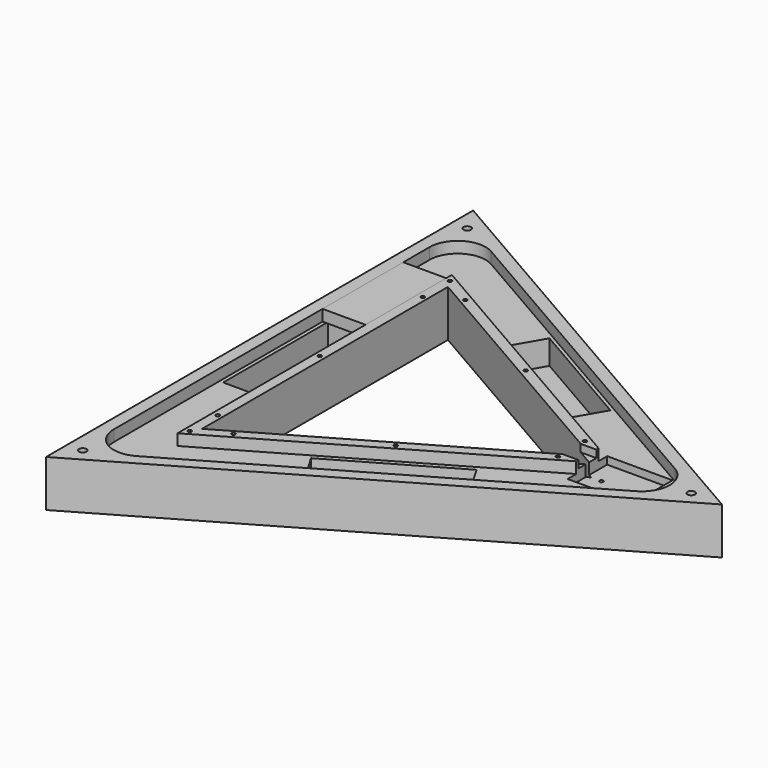
from build123d import *

# Parameters (mm, degrees)
BOX005_W               = 23
BOX005_H               = 54
BOX005_DEPTH           = 6
PRISM003_DEPTH         = 6
PRISM002_DEPTH         = 6
BOX004_W               = 10
BOX004_H               = 12
BOX004_DEPTH           = 4
BOX003_W               = 35
BOX003_H               = 26.5
BOX003_DEPTH           = 10
BOX002_W               = 70
BOX002_H               = 19
BOX002_DEPTH           = 19
BOX002_PLACEMENT_ANGLE = 30
BOX001_W               = 70
BOX001_H               = 19
BOX001_DEPTH           = 19
BOX001_PLACEMENT_ANGLE = 90
BOX_W                  = 70
BOX_H                  = 19
BOX_DEPTH              = 19
BOX_PLACEMENT_ANGLE    = 30
PRISM001_DEPTH         = 25
PRISM_DEPTH            = 25
FILLET_R               = 15
SKETCH001_R            = 2
POCKET_DEPTH           = 782.777352
POLARPATTERN_COUNT     = 3
POCKET001_DEPTH        = 3
SKETCH002_R            = 1
POCKET002_DEPTH        = 782.777352
POLARPATTERN001_COUNT  = 3
SKETCH004_R            = 1
POCKET003_DEPTH        = 782.777352
POLARPATTERN002_COUNT  = 3
POLARPATTERN003_COUNT  = 3


with BuildPart() as box005:
    # Box005 → Box005 (new body)
    with BuildSketch(Plane(origin=(-76, 34, 13), x_dir=(1, 0, 0), z_dir=(0, 0, 1))):
        with Locations((11.5, 27)):
            Rectangle(BOX005_W, BOX005_H)
    extrude(amount=BOX005_DEPTH)


with BuildPart() as prism003:
    # Prism003 → Prism003 (new body)
    with BuildSketch(Plane.XY.offset(13)):
        Polygon((106, 0), (-53, 91.798693), (-53, -91.798693), align=None)
    extrude(amount=PRISM003_DEPTH)


with BuildPart() as cut006:
    # Prism002 → Prism002 (new body)
    with BuildSketch(Plane.XY.offset(13)):
        Polygon((152, 0), (-76, 131.635861), (-76, -131.635861), align=None)
    extrude(amount=PRISM002_DEPTH)

    # Cut006: cut Prism003
    add(prism003.part, mode=Mode.SUBTRACT)


with BuildPart() as box004:
    # Box004 → Box004 (new body)
    with BuildSketch(Plane(origin=(84, -6, 15), x_dir=(1, 0, 0), z_dir=(0, 0, 1))):
        with Locations((5, 6)):
            Rectangle(BOX004_W, BOX004_H)
    extrude(amount=BOX004_DEPTH)


with BuildPart() as box003:
    # Box003 → Box003 (new body)
    with BuildSketch(Plane(origin=(93, -13.3, 9), x_dir=(1, 0, 0), z_dir=(0, 0, 1))):
        with Locations((17.5, 13.25)):
            Rectangle(BOX003_W, BOX003_H)
    extrude(amount=BOX003_DEPTH)


with BuildPart() as box002:
    # Box002 → Box002 (new body)
    with BuildSketch(Plane.XY):
        with Locations((35, 9.5)):
            Rectangle(BOX002_W, BOX002_H)
    extrude(amount=BOX002_DEPTH)


with BuildPart() as box002_1:
    # Box002 placement: moved
    add(box002.part.moved(Location((7, -82, 0))).rotate(Axis((7, -82, 0), (0, 0, 1)), BOX002_PLACEMENT_ANGLE))


with BuildPart() as box001:
    # Box001 → Box001 (new body)
    with BuildSketch(Plane.XY):
        with Locations((35, 9.5)):
            Rectangle(BOX001_W, BOX001_H)
    extrude(amount=BOX001_DEPTH)


with BuildPart() as box001_1:
    # Box001 placement: moved
    add(box001.part.moved(Location((-55, -35, 0))).rotate(Axis((-55, -35, 0), (0, 0, 1)), BOX001_PLACEMENT_ANGLE))


with BuildPart() as box:
    # Box → Box (new body)
    with BuildSketch(Plane.XY):
        with Locations((35, 9.5)):
            Rectangle(BOX_W, BOX_H)
    extrude(amount=BOX_DEPTH)


with BuildPart() as box_1:
    # Box placement: moved
    add(box.part.moved(Location((-2, 65, 0))).rotate(Axis((-2, 65, 0), (0, 0, -1)), BOX_PLACEMENT_ANGLE))


with BuildPart() as prism001:
    # Prism001 → Prism001 (new body)
    with BuildSketch(Plane.XY.offset(-6)):
        Polygon((95, 0), (-47.5, 82.272413), (-47.5, -82.272413), align=None)
    extrude(amount=PRISM001_DEPTH)


with BuildPart() as body:
    # Prism → Prism (new body)
    with BuildSketch(Plane.XY.offset(-6)):
        Polygon((165, 0), (-82.5, 142.894192), (-82.5, -142.894192), align=None)
    extrude(amount=PRISM_DEPTH)

    # Cut: cut Prism001
    add(prism001.part, mode=Mode.SUBTRACT)

    # Cut001: cut Box
    add(box_1.part, mode=Mode.SUBTRACT)

    # Cut002: cut Box001
    add(box001_1.part, mode=Mode.SUBTRACT)

    # Cut003: cut Box002
    add(box002_1.part, mode=Mode.SUBTRACT)

    # Cut004: cut Box003
    add(box003.part, mode=Mode.SUBTRACT)

    # Cut005: cut Box004
    add(box004.part, mode=Mode.SUBTRACT)

    # Cut007: cut Cut006
    add(cut006.part, mode=Mode.SUBTRACT)

    # Fillet
    fillet_edges = [body.edges().sort_by_distance(p)[0] for p in [
        (152, 0, 16),
        (-76, 131.635861, 16),
        (-76, -131.635861, 16),
    ]]
    fillet(fillet_edges, radius=FILLET_R)

    # Sketch001 (on Face1 of BaseFeature) → Pocket (cut, through all)
    with BuildSketch(Plane.XY.offset(19)):
        with Locations((148.549835, 0)):
            Circle(SKETCH001_R)
    pocket = extrude(amount=-POCKET_DEPTH, mode=Mode.SUBTRACT)

    # PolarPattern: Pocket ×3 about axis
    polarpattern_axis = Axis((0, 0, 19), (0, 0, 1))
    for i in range(1, POLARPATTERN_COUNT):
        add(pocket.rotate(polarpattern_axis, i * 360 / POLARPATTERN_COUNT), mode=Mode.SUBTRACT)

    # Sketch003 (on Face14 of PolarPattern) → Pocket001 (cut)
    with BuildSketch(Plane(origin=(0, 0, -6), x_dir=(1, 0, 0), z_dir=(0, 0, -1))):
        Polygon((-70.5, 122.109582), (141, 0), (-70.5, -122.109582), align=None)
        Polygon((-59.5, -103.057023), (-59.5, 103.057023), (119, 0), align=None, mode=Mode.SUBTRACT)
    extrude(amount=-POCKET001_DEPTH, mode=Mode.SUBTRACT)

    # Sketch002 (on Face39 of PolarPattern) → Pocket002 (cut, through all)
    with BuildSketch(Plane.XY.offset(19)):
        with Locations((-50.25, 0)):
            Circle(SKETCH002_R)
        with Locations((-50.25, 87.035553)):
            Circle(SKETCH002_R)
    pocket002 = extrude(amount=-POCKET002_DEPTH, mode=Mode.SUBTRACT)

    # PolarPattern001: Pocket002 ×3 about axis
    polarpattern001_axis = Axis((0, 0, 19), (0, 0, 1))
    for i in range(1, POLARPATTERN001_COUNT):
        add(pocket002.rotate(polarpattern001_axis, i * 360 / POLARPATTERN001_COUNT), mode=Mode.SUBTRACT)

    # Sketch004 (on Face40 of PolarPattern001) → Pocket003 (cut, through all)
    with BuildSketch(Plane.XY.offset(19)):
        with Locations((84.411543, 9)):
            Circle(SKETCH004_R)
        with Locations((84.411543, -9)):
            Circle(SKETCH004_R)
    pocket003 = extrude(amount=-POCKET003_DEPTH, mode=Mode.SUBTRACT)

    # PolarPattern002: Pocket003 ×3 about axis
    polarpattern002_axis = Axis((0, 0, 19), (0, 0, 1))
    for i in range(1, POLARPATTERN002_COUNT):
        add(pocket003.rotate(polarpattern002_axis, i * 360 / POLARPATTERN002_COUNT), mode=Mode.SUBTRACT)

    # PolarPattern003: Pocket002 ×3 about axis
    polarpattern003_axis = Axis((0, 0, 19), (0, 0, 1))
    for i in range(1, POLARPATTERN003_COUNT):
        add(pocket002.rotate(polarpattern003_axis, i * 360 / POLARPATTERN003_COUNT), mode=Mode.SUBTRACT)


solid = Compound([box005.part, body.part])
